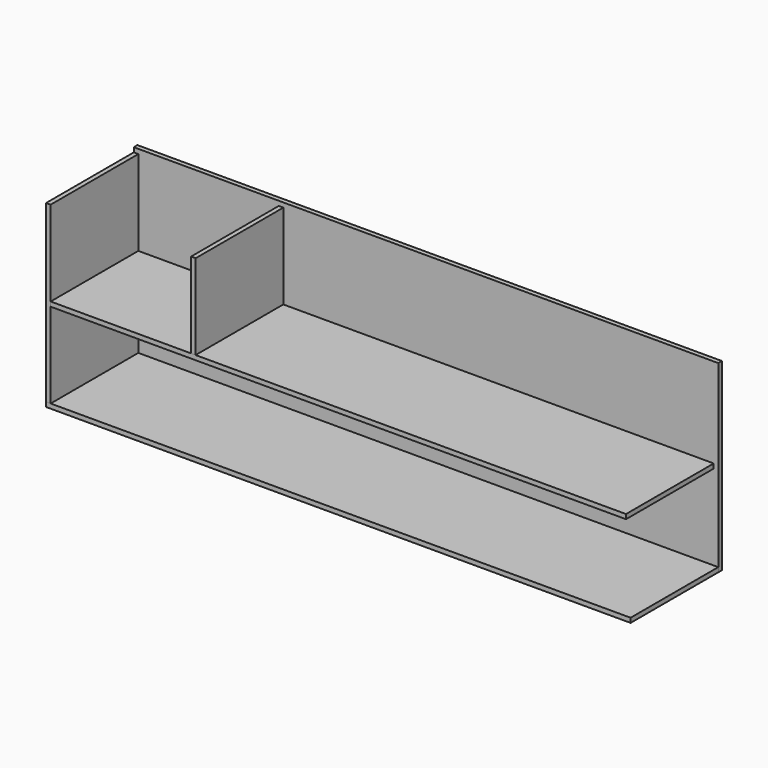
from build123d import *

# Parameters (mm, degrees)
F1_DEPTH = 457.2
F2_DEPTH = 457.2
F3_DEPTH = 457.2
F0_W     = 19.05
F0_H     = 355.6
F4_DEPTH = 457.2
F5_W     = 2438.4
F5_H     = 768.35
F6_DEPTH = 19.05


with BuildPart() as f1:
    # F0 (on Front) → F1 (new body)
    with BuildSketch(Plane.XZ):
        Polygon((19.05, -749.3), (0, -749.3), (0, -768.35), (2438.4, -768.35), (2438.4, -749.3), (2419.35, -749.3), (1631.95, -749.3), (1612.9, -749.3), (825.5, -749.3), (806.45, -749.3), align=None)
    extrude(amount=F1_DEPTH)


with BuildPart() as f2:
    # F0 (on Front) → F2 (new body)
    with BuildSketch(Plane.XZ):
        Polygon((19.05, -19.05), (0, -19.05), (0, -749.3), (19.05, -749.3), (19.05, -393.7), (19.05, -374.65), align=None)
    extrude(amount=F2_DEPTH)


with BuildPart() as f3:
    # F0 (on Front) → F3 (new body)
    with BuildSketch(Plane.XZ):
        Polygon((604.8375, -374.65), (19.05, -374.65), (19.05, -393.7), (806.45, -393.7), (825.5, -393.7), (1612.9, -393.7), (1631.95, -393.7), (2419.35, -393.7), (2419.35, -374.65), (1833.5625, -374.65), (1814.5125, -374.65), (1228.725, -374.65), (1209.675, -374.65), (623.8875, -374.65), align=None)
    extrude(amount=F3_DEPTH)


with BuildPart() as f4:
    # F0 (on Front) → F4 (new body)
    with BuildSketch(Plane.XZ):
        with Locations((614.3625, -196.85)):
            Rectangle(F0_W, F0_H)
    extrude(amount=F4_DEPTH)


with BuildPart() as f6:
    # F5 (on face) → F6 (new body)
    with BuildSketch(Plane.XZ):
        with Locations((1219.2, -384.175)):
            Rectangle(F5_W, F5_H)
    extrude(amount=-F6_DEPTH)


solid = Compound([f1.part, f2.part, f3.part, f4.part, f6.part])
